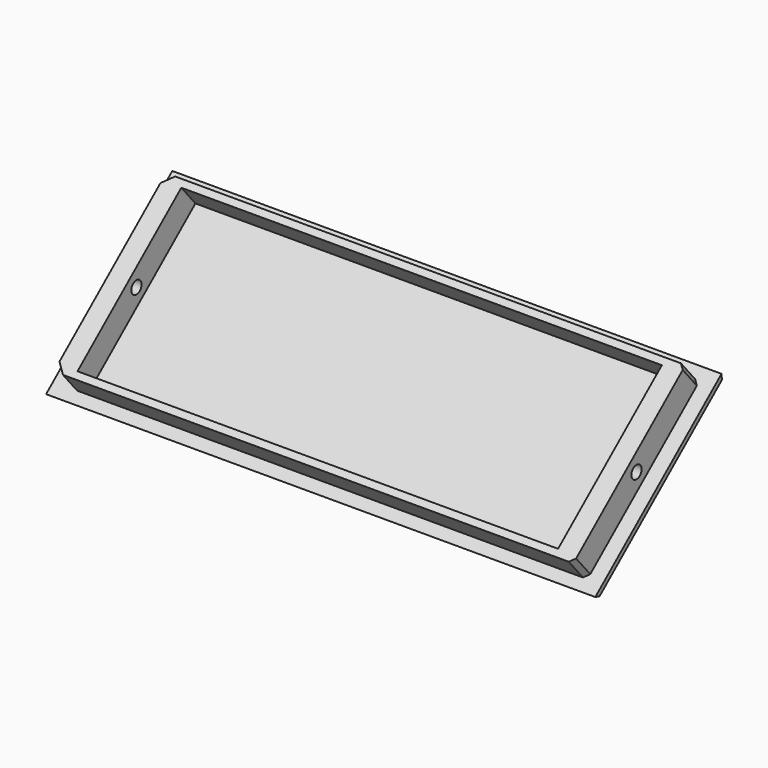
from build123d import *

# Parameters (mm, degrees)
SKETCH018_W             = 120
SKETCH018_H             = 45
PAD003_DEPTH            = 3
SKETCH019_W             = 113.5
SKETCH019_H             = 40
PAD004_DEPTH            = 6
SKETCH020_R             = 1.4
POCKET008_DEPTH         = 116.751
POCKET012_DEPTH         = 376.952357
CHAMFER008_SIZE         = 2
SKETCH021_W             = 105
SKETCH021_H             = 37
POCKET013_DEPTH         = 6
CHAMFER009_SIZE         = 2
CHAMFER010_SIZE         = 1
CHAMFER011_SIZE         = 1
CHAMFER012_SIZE         = 2
BODY001_PLACEMENT_ANGLE = 50


with BuildPart() as part:
    # Sketch018 → Pad003 (new body)
    with BuildSketch(Plane.XZ):
        Rectangle(SKETCH018_W, SKETCH018_H)
    extrude(amount=PAD003_DEPTH)

    # Sketch019 (on Face6 of Pad003) → Pad004 (join)
    with BuildSketch(Plane.XZ.offset(3)):
        Rectangle(SKETCH019_W, SKETCH019_H)
    extrude(amount=PAD004_DEPTH)

    # Sketch020 (on Face8 of Pad004) → Pocket008 (cut, through all)
    with BuildSketch(Plane(origin=(56.75, 0, 0), x_dir=(0, 0, 1), z_dir=(1, 0, 0))):
        with Locations((0, 6)):
            Circle(SKETCH020_R)
    extrude(amount=-POCKET008_DEPTH, mode=Mode.SUBTRACT)

    # Sketch024 (on Face3 of Pocket008) → Pocket012 (cut, through all)
    with BuildSketch(Plane(origin=(60, 0, 0), x_dir=(0, 0, 1), z_dir=(1, 0, 0))):
        Polygon((-22.5, 3), (-17.875456, -3.604533), (-35.516254, -3.604533), align=None)
    pocket012 = extrude(amount=-POCKET012_DEPTH, mode=Mode.SUBTRACT)

    # Mirrored: Pocket012 across Sketch024 V_Axis
    add(pocket012.mirror(Plane(origin=(60, 0, 0), x_dir=(1, 0, 0), z_dir=(0, 0, 1))), mode=Mode.SUBTRACT)

    # Chamfer008
    chamfer008_edges = [part.edges().sort_by_distance(p)[0] for p in [
        (60, 0, 0),
        (-60, 0, 0),
    ]]
    chamfer(chamfer008_edges, length=CHAMFER008_SIZE)

    # Sketch021 → Pocket013 (cut)
    with BuildSketch(Plane.XZ.offset(9)):
        Rectangle(SKETCH021_W, SKETCH021_H)
    extrude(amount=-POCKET013_DEPTH, mode=Mode.SUBTRACT)

    # Chamfer009
    chamfer009_edges = [part.edges().sort_by_distance(p)[0] for p in [
        (-56.75, -6, -20),
    ]]
    chamfer(chamfer009_edges, length=CHAMFER009_SIZE)

    # Chamfer010
    chamfer010_edges = [part.edges().sort_by_distance(p)[0] for p in [
        (56.75, -6, -20),
    ]]
    chamfer(chamfer010_edges, length=CHAMFER010_SIZE)

    # Chamfer011
    chamfer011_edges = [part.edges().sort_by_distance(p)[0] for p in [
        (56.75, -6, 20),
    ]]
    chamfer(chamfer011_edges, length=CHAMFER011_SIZE)

    # Chamfer012
    chamfer012_edges = [part.edges().sort_by_distance(p)[0] for p in [
        (-56.75, -6, 20),
    ]]
    chamfer(chamfer012_edges, length=CHAMFER012_SIZE)


with BuildPart() as part_1:
    # Body001 placement: moved
    add(part.part.moved(Location((7, 16.629636, -17.350208))).rotate(Axis((7, 16.629636, -17.350208), (-1, 0, 0)), BODY001_PLACEMENT_ANGLE))


solid = part_1.part
